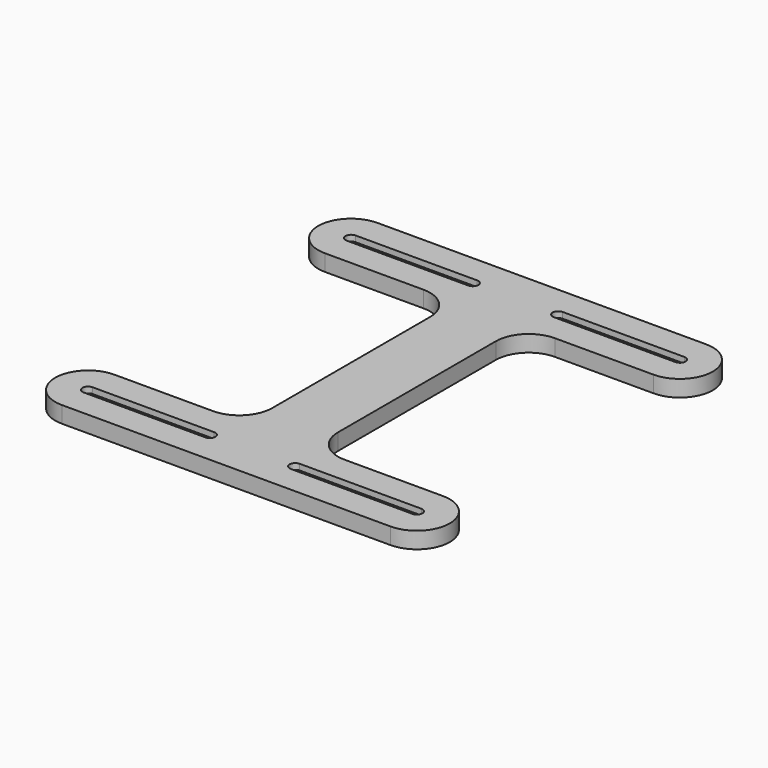
from build123d import *

# Parameters (mm, degrees)
PAD_DEPTH    = 5
POCKET_DEPTH = 3.2


with BuildPart() as part:
    # Sketch → Pad (new body)
    with BuildSketch(Plane.XY):
        with BuildLine():
            ThreePointArc((-50, -40), (-60, -50), (-50, -60))
            Line((-50, -60), (50, -60))
            ThreePointArc((50, -60), (60, -50), (50, -40))
            Line((20, -40), (50, -40))
            ThreePointArc((10, -30), (12.928932, -37.071068), (20, -40))
            Line((10, 30), (10, -30))
            ThreePointArc((20, 40), (12.928932, 37.071068), (10, 30))
            Line((50, 40), (20, 40))
            ThreePointArc((50, 40), (60, 50), (50, 60))
            Line((-50, 60), (50, 60))
            ThreePointArc((-50, 60), (-60, 50), (-50, 40))
            Line((-50, 40), (-20, 40))
            ThreePointArc((-10, 30), (-12.928932, 37.071068), (-20, 40))
            Line((-10, 30), (-10, -30))
            ThreePointArc((-20, -40), (-12.928932, -37.071068), (-10, -30))
            Line((-20, -40), (-50, -40))
        make_face()
        with BuildLine():
            ThreePointArc((-50, -48.3), (-51.7, -50), (-50, -51.7))
            Line((-50, -51.7), (-13, -51.7))
            ThreePointArc((-13, -51.7), (-11.3, -50), (-13, -48.3))
            Line((-50, -48.3), (-13, -48.3))
        make_face(mode=Mode.SUBTRACT)
        with BuildLine():
            ThreePointArc((50, -51.7), (51.7, -50), (50, -48.3))
            Line((50, -48.3), (13, -48.3))
            ThreePointArc((13, -48.3), (11.3, -50), (13, -51.7))
            Line((50, -51.7), (13, -51.7))
        make_face(mode=Mode.SUBTRACT)
        with BuildLine():
            ThreePointArc((-50, 51.7), (-51.7, 50), (-50, 48.3))
            Line((-50, 48.3), (-13, 48.3))
            ThreePointArc((-13, 48.3), (-11.3, 50), (-13, 51.7))
            Line((-50, 51.7), (-13, 51.7))
        make_face(mode=Mode.SUBTRACT)
        with BuildLine():
            ThreePointArc((50, 48.3), (51.7, 50), (50, 51.7))
            Line((50, 51.7), (13, 51.7))
            ThreePointArc((13, 51.7), (11.3, 50), (13, 48.3))
            Line((50, 48.3), (13, 48.3))
        make_face(mode=Mode.SUBTRACT)
    extrude(amount=PAD_DEPTH)

    # Sketch001 → Pocket (cut)
    with BuildSketch(Plane.XY):
        with BuildLine():
            ThreePointArc((-13, -53.4), (-9.6, -50), (-13, -46.6))
            Line((-13, -46.6), (-50, -46.6))
            ThreePointArc((-50, -46.6), (-53.4, -50), (-50, -53.4))
            Line((-13, -53.4), (-50, -53.4))
        make_face()
        with BuildLine():
            ThreePointArc((13, -46.6), (9.6, -50), (13, -53.4))
            Line((13, -53.4), (50, -53.4))
            ThreePointArc((50, -53.4), (53.4, -50), (50, -46.6))
            Line((13, -46.6), (50, -46.6))
        make_face()
        with BuildLine():
            ThreePointArc((-13, 46.6), (-9.6, 50), (-13, 53.4))
            Line((-13, 53.4), (-50, 53.4))
            ThreePointArc((-50, 53.4), (-53.4, 50), (-50, 46.6))
            Line((-13, 46.6), (-50, 46.6))
        make_face()
        with BuildLine():
            ThreePointArc((13, 53.4), (9.6, 50), (13, 46.6))
            Line((13, 46.6), (50, 46.6))
            ThreePointArc((50, 46.6), (53.4, 50), (50, 53.4))
            Line((13, 53.4), (50, 53.4))
        make_face()
    extrude(amount=POCKET_DEPTH, mode=Mode.SUBTRACT)


solid = part.part
